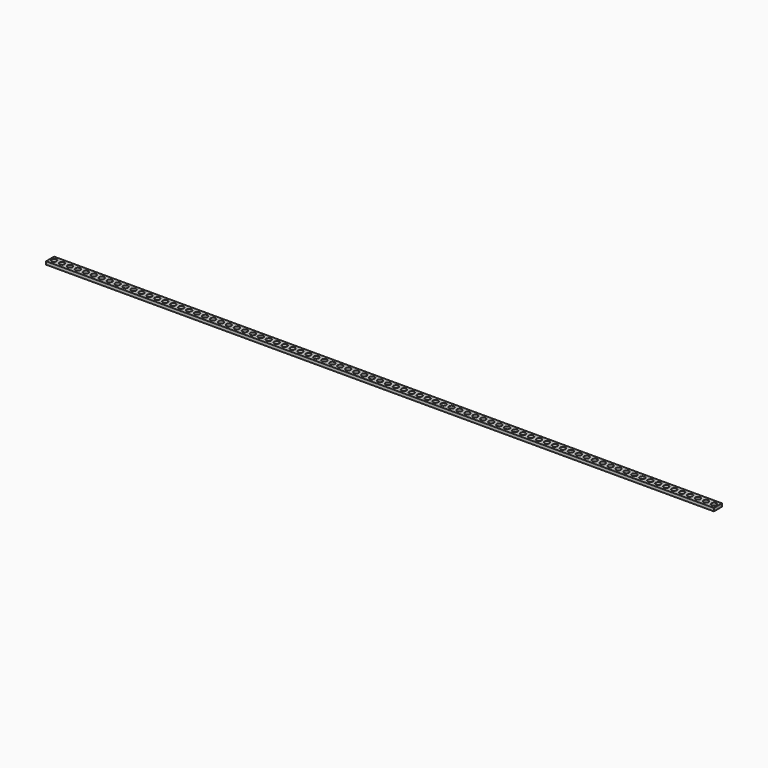
from build123d import *

# Parameters (mm, degrees)
F0_W     = 5.08
F0_H     = 6.4
F0_R     = 1.6
F1_DEPTH = 1.96


with BuildPart() as f1:
    # F0 (on Top) → F1 (new body)
    with BuildSketch(Plane.XY):
        with Locations((-205.296778, -8.673604)):
            Rectangle(F0_W, F0_H)
        with Locations((-205.296778, -8.673604)):
            Circle(F0_R, mode=Mode.SUBTRACT)
        with Locations((-200.216778, -8.673604)):
            Rectangle(F0_W, F0_H)
        with Locations((-200.216778, -8.673604)):
            Circle(F0_R, mode=Mode.SUBTRACT)
        with Locations((-195.136778, -8.673604)):
            Rectangle(F0_W, F0_H)
        with Locations((-195.136778, -8.673604)):
            Circle(F0_R, mode=Mode.SUBTRACT)
        with Locations((-190.056778, -8.673604)):
            Rectangle(F0_W, F0_H)
        with Locations((-190.056778, -8.673604)):
            Circle(F0_R, mode=Mode.SUBTRACT)
        with Locations((-184.976778, -8.673604)):
            Rectangle(F0_W, F0_H)
        with Locations((-184.976778, -8.673604)):
            Circle(F0_R, mode=Mode.SUBTRACT)
        with Locations((-179.896778, -8.673604)):
            Rectangle(F0_W, F0_H)
        with Locations((-179.896778, -8.673604)):
            Circle(F0_R, mode=Mode.SUBTRACT)
        with Locations((-174.816778, -8.673604)):
            Rectangle(F0_W, F0_H)
        with Locations((-174.816778, -8.673604)):
            Circle(F0_R, mode=Mode.SUBTRACT)
        with Locations((-169.736778, -8.673604)):
            Rectangle(F0_W, F0_H)
        with Locations((-169.736778, -8.673604)):
            Circle(F0_R, mode=Mode.SUBTRACT)
        with Locations((-164.656778, -8.673604)):
            Rectangle(F0_W, F0_H)
        with Locations((-164.656778, -8.673604)):
            Circle(F0_R, mode=Mode.SUBTRACT)
        with Locations((-159.576778, -8.673604)):
            Rectangle(F0_W, F0_H)
        with Locations((-159.576778, -8.673604)):
            Circle(F0_R, mode=Mode.SUBTRACT)
        with Locations((-154.496778, -8.673604)):
            Rectangle(F0_W, F0_H)
        with Locations((-154.496778, -8.673604)):
            Circle(F0_R, mode=Mode.SUBTRACT)
        with Locations((-149.416778, -8.673604)):
            Rectangle(F0_W, F0_H)
        with Locations((-149.416778, -8.673604)):
            Circle(F0_R, mode=Mode.SUBTRACT)
        with Locations((-144.336778, -8.673604)):
            Rectangle(F0_W, F0_H)
        with Locations((-144.336778, -8.673604)):
            Circle(F0_R, mode=Mode.SUBTRACT)
        with Locations((-139.256778, -8.673604)):
            Rectangle(F0_W, F0_H)
        with Locations((-139.256778, -8.673604)):
            Circle(F0_R, mode=Mode.SUBTRACT)
        with Locations((-134.176778, -8.673604)):
            Rectangle(F0_W, F0_H)
        with Locations((-134.176778, -8.673604)):
            Circle(F0_R, mode=Mode.SUBTRACT)
        with Locations((-129.096778, -8.673604)):
            Rectangle(F0_W, F0_H)
        with Locations((-129.096778, -8.673604)):
            Circle(F0_R, mode=Mode.SUBTRACT)
        with Locations((-124.016778, -8.673604)):
            Rectangle(F0_W, F0_H)
        with Locations((-124.016778, -8.673604)):
            Circle(F0_R, mode=Mode.SUBTRACT)
        with Locations((-118.936778, -8.673604)):
            Rectangle(F0_W, F0_H)
        with Locations((-118.936778, -8.673604)):
            Circle(F0_R, mode=Mode.SUBTRACT)
        with Locations((-113.856778, -8.673604)):
            Rectangle(F0_W, F0_H)
        with Locations((-113.856778, -8.673604)):
            Circle(F0_R, mode=Mode.SUBTRACT)
        with Locations((-108.776778, -8.673604)):
            Rectangle(F0_W, F0_H)
        with Locations((-108.776778, -8.673604)):
            Circle(F0_R, mode=Mode.SUBTRACT)
        with Locations((-103.696778, -8.673604)):
            Rectangle(F0_W, F0_H)
        with Locations((-103.696778, -8.673604)):
            Circle(F0_R, mode=Mode.SUBTRACT)
        with Locations((-98.616778, -8.673604)):
            Rectangle(F0_W, F0_H)
        with Locations((-98.616778, -8.673604)):
            Circle(F0_R, mode=Mode.SUBTRACT)
        with Locations((-93.536778, -8.673604)):
            Rectangle(F0_W, F0_H)
        with Locations((-93.536778, -8.673604)):
            Circle(F0_R, mode=Mode.SUBTRACT)
        with Locations((-88.456778, -8.673604)):
            Rectangle(F0_W, F0_H)
        with Locations((-88.456778, -8.673604)):
            Circle(F0_R, mode=Mode.SUBTRACT)
        with Locations((-83.376778, -8.673604)):
            Rectangle(F0_W, F0_H)
        with Locations((-83.376778, -8.673604)):
            Circle(F0_R, mode=Mode.SUBTRACT)
        with Locations((-78.296778, -8.673604)):
            Rectangle(F0_W, F0_H)
        with Locations((-78.296778, -8.673604)):
            Circle(F0_R, mode=Mode.SUBTRACT)
        with Locations((-73.216778, -8.673604)):
            Rectangle(F0_W, F0_H)
        with Locations((-73.216778, -8.673604)):
            Circle(F0_R, mode=Mode.SUBTRACT)
        with Locations((-68.136778, -8.673604)):
            Rectangle(F0_W, F0_H)
        with Locations((-68.136778, -8.673604)):
            Circle(F0_R, mode=Mode.SUBTRACT)
        with Locations((-63.056778, -8.673604)):
            Rectangle(F0_W, F0_H)
        with Locations((-63.056778, -8.673604)):
            Circle(F0_R, mode=Mode.SUBTRACT)
        with Locations((-57.976778, -8.673604)):
            Rectangle(F0_W, F0_H)
        with Locations((-57.976778, -8.673604)):
            Circle(F0_R, mode=Mode.SUBTRACT)
        with Locations((-52.896778, -8.673604)):
            Rectangle(F0_W, F0_H)
        with Locations((-52.896778, -8.673604)):
            Circle(F0_R, mode=Mode.SUBTRACT)
        with Locations((-47.816778, -8.673604)):
            Rectangle(F0_W, F0_H)
        with Locations((-47.816778, -8.673604)):
            Circle(F0_R, mode=Mode.SUBTRACT)
        with Locations((-42.736778, -8.673604)):
            Rectangle(F0_W, F0_H)
        with Locations((-42.736778, -8.673604)):
            Circle(F0_R, mode=Mode.SUBTRACT)
        with Locations((-37.656778, -8.673604)):
            Rectangle(F0_W, F0_H)
        with Locations((-37.656778, -8.673604)):
            Circle(F0_R, mode=Mode.SUBTRACT)
        with Locations((-32.576778, -8.673604)):
            Rectangle(F0_W, F0_H)
        with Locations((-32.576778, -8.673604)):
            Circle(F0_R, mode=Mode.SUBTRACT)
        with Locations((-27.496778, -8.673604)):
            Rectangle(F0_W, F0_H)
        with Locations((-27.496778, -8.673604)):
            Circle(F0_R, mode=Mode.SUBTRACT)
        with Locations((-22.416778, -8.673604)):
            Rectangle(F0_W, F0_H)
        with Locations((-22.416778, -8.673604)):
            Circle(F0_R, mode=Mode.SUBTRACT)
        with Locations((-17.336778, -8.673604)):
            Rectangle(F0_W, F0_H)
        with Locations((-17.336778, -8.673604)):
            Circle(F0_R, mode=Mode.SUBTRACT)
        with Locations((-12.256778, -8.673604)):
            Rectangle(F0_W, F0_H)
        with Locations((-12.256778, -8.673604)):
            Circle(F0_R, mode=Mode.SUBTRACT)
        with Locations((-7.176778, -8.673604)):
            Rectangle(F0_W, F0_H)
        with Locations((-7.176778, -8.673604)):
            Circle(F0_R, mode=Mode.SUBTRACT)
        with Locations((-2.096778, -8.673604)):
            Rectangle(F0_W, F0_H)
        with Locations((-2.096778, -8.673604)):
            Circle(F0_R, mode=Mode.SUBTRACT)
        with Locations((2.983222, -8.673604)):
            Rectangle(F0_W, F0_H)
        with Locations((2.983222, -8.673604)):
            Circle(F0_R, mode=Mode.SUBTRACT)
        with Locations((8.063222, -8.673604)):
            Rectangle(F0_W, F0_H)
        with Locations((8.063222, -8.673604)):
            Circle(F0_R, mode=Mode.SUBTRACT)
        with Locations((13.143222, -8.673604)):
            Rectangle(F0_W, F0_H)
        with Locations((13.143222, -8.673604)):
            Circle(F0_R, mode=Mode.SUBTRACT)
        with Locations((18.223222, -8.673604)):
            Rectangle(F0_W, F0_H)
        with Locations((18.223222, -8.673604)):
            Circle(F0_R, mode=Mode.SUBTRACT)
        with Locations((23.303222, -8.673604)):
            Rectangle(F0_W, F0_H)
        with Locations((23.303222, -8.673604)):
            Circle(F0_R, mode=Mode.SUBTRACT)
        with Locations((28.383222, -8.673604)):
            Rectangle(F0_W, F0_H)
        with Locations((28.383222, -8.673604)):
            Circle(F0_R, mode=Mode.SUBTRACT)
        with Locations((33.463222, -8.673604)):
            Rectangle(F0_W, F0_H)
        with Locations((33.463222, -8.673604)):
            Circle(F0_R, mode=Mode.SUBTRACT)
        with Locations((38.543222, -8.673604)):
            Rectangle(F0_W, F0_H)
        with Locations((38.543222, -8.673604)):
            Circle(F0_R, mode=Mode.SUBTRACT)
        with Locations((43.623222, -8.673604)):
            Rectangle(F0_W, F0_H)
        with Locations((43.623222, -8.673604)):
            Circle(F0_R, mode=Mode.SUBTRACT)
        with Locations((48.703222, -8.673604)):
            Rectangle(F0_W, F0_H)
        with Locations((48.703222, -8.673604)):
            Circle(F0_R, mode=Mode.SUBTRACT)
        with Locations((53.783222, -8.673604)):
            Rectangle(F0_W, F0_H)
        with Locations((53.783222, -8.673604)):
            Circle(F0_R, mode=Mode.SUBTRACT)
        with Locations((58.863222, -8.673604)):
            Rectangle(F0_W, F0_H)
        with Locations((58.863222, -8.673604)):
            Circle(F0_R, mode=Mode.SUBTRACT)
        with Locations((63.943222, -8.673604)):
            Rectangle(F0_W, F0_H)
        with Locations((63.943222, -8.673604)):
            Circle(F0_R, mode=Mode.SUBTRACT)
        with Locations((69.023222, -8.673604)):
            Rectangle(F0_W, F0_H)
        with Locations((69.023222, -8.673604)):
            Circle(F0_R, mode=Mode.SUBTRACT)
        with Locations((74.103222, -8.673604)):
            Rectangle(F0_W, F0_H)
        with Locations((74.103222, -8.673604)):
            Circle(F0_R, mode=Mode.SUBTRACT)
        with Locations((79.183222, -8.673604)):
            Rectangle(F0_W, F0_H)
        with Locations((79.183222, -8.673604)):
            Circle(F0_R, mode=Mode.SUBTRACT)
        with Locations((84.263222, -8.673604)):
            Rectangle(F0_W, F0_H)
        with Locations((84.263222, -8.673604)):
            Circle(F0_R, mode=Mode.SUBTRACT)
        with Locations((89.343222, -8.673604)):
            Rectangle(F0_W, F0_H)
        with Locations((89.343222, -8.673604)):
            Circle(F0_R, mode=Mode.SUBTRACT)
        with Locations((94.423222, -8.673604)):
            Rectangle(F0_W, F0_H)
        with Locations((94.423222, -8.673604)):
            Circle(F0_R, mode=Mode.SUBTRACT)
        with Locations((99.503222, -8.673604)):
            Rectangle(F0_W, F0_H)
        with Locations((99.503222, -8.673604)):
            Circle(F0_R, mode=Mode.SUBTRACT)
        with Locations((104.583222, -8.673604)):
            Rectangle(F0_W, F0_H)
        with Locations((104.583222, -8.673604)):
            Circle(F0_R, mode=Mode.SUBTRACT)
        with Locations((109.663222, -8.673604)):
            Rectangle(F0_W, F0_H)
        with Locations((109.663222, -8.673604)):
            Circle(F0_R, mode=Mode.SUBTRACT)
        with Locations((114.743222, -8.673604)):
            Rectangle(F0_W, F0_H)
        with Locations((114.743222, -8.673604)):
            Circle(F0_R, mode=Mode.SUBTRACT)
        with Locations((119.823222, -8.673604)):
            Rectangle(F0_W, F0_H)
        with Locations((119.823222, -8.673604)):
            Circle(F0_R, mode=Mode.SUBTRACT)
        with Locations((124.903222, -8.673604)):
            Rectangle(F0_W, F0_H)
        with Locations((124.903222, -8.673604)):
            Circle(F0_R, mode=Mode.SUBTRACT)
        with Locations((129.983222, -8.673604)):
            Rectangle(F0_W, F0_H)
        with Locations((129.983222, -8.673604)):
            Circle(F0_R, mode=Mode.SUBTRACT)
        with Locations((135.063222, -8.673604)):
            Rectangle(F0_W, F0_H)
        with Locations((135.063222, -8.673604)):
            Circle(F0_R, mode=Mode.SUBTRACT)
        with Locations((140.143222, -8.673604)):
            Rectangle(F0_W, F0_H)
        with Locations((140.143222, -8.673604)):
            Circle(F0_R, mode=Mode.SUBTRACT)
        with Locations((145.223222, -8.673604)):
            Rectangle(F0_W, F0_H)
        with Locations((145.223222, -8.673604)):
            Circle(F0_R, mode=Mode.SUBTRACT)
        with Locations((150.303222, -8.673604)):
            Rectangle(F0_W, F0_H)
        with Locations((150.303222, -8.673604)):
            Circle(F0_R, mode=Mode.SUBTRACT)
        with Locations((155.383222, -8.673604)):
            Rectangle(F0_W, F0_H)
        with Locations((155.383222, -8.673604)):
            Circle(F0_R, mode=Mode.SUBTRACT)
        with Locations((160.463222, -8.673604)):
            Rectangle(F0_W, F0_H)
        with Locations((160.463222, -8.673604)):
            Circle(F0_R, mode=Mode.SUBTRACT)
        with Locations((165.543222, -8.673604)):
            Rectangle(F0_W, F0_H)
        with Locations((165.543222, -8.673604)):
            Circle(F0_R, mode=Mode.SUBTRACT)
        with Locations((175.703222, -8.673604)):
            Rectangle(F0_W, F0_H)
        with Locations((175.703222, -8.673604)):
            Circle(F0_R, mode=Mode.SUBTRACT)
        with Locations((180.783222, -8.673604)):
            Rectangle(F0_W, F0_H)
        with Locations((180.783222, -8.673604)):
            Circle(F0_R, mode=Mode.SUBTRACT)
        with Locations((170.623222, -8.673604)):
            Rectangle(F0_W, F0_H)
        with Locations((170.623222, -8.673604)):
            Circle(F0_R, mode=Mode.SUBTRACT)
        with Locations((185.863222, -8.673604)):
            Rectangle(F0_W, F0_H)
        with Locations((185.863222, -8.673604)):
            Circle(F0_R, mode=Mode.SUBTRACT)
        with Locations((190.943222, -8.673604)):
            Rectangle(F0_W, F0_H)
        with Locations((190.943222, -8.673604)):
            Circle(F0_R, mode=Mode.SUBTRACT)
        with Locations((196.023222, -8.673604)):
            Rectangle(F0_W, F0_H)
        with Locations((196.023222, -8.673604)):
            Circle(F0_R, mode=Mode.SUBTRACT)
        with Locations((201.103222, -8.673604)):
            Rectangle(F0_W, F0_H)
        with Locations((201.103222, -8.673604)):
            Circle(F0_R, mode=Mode.SUBTRACT)
        with Locations((206.183222, -8.673604)):
            Rectangle(F0_W, F0_H)
        with Locations((206.183222, -8.673604)):
            Circle(F0_R, mode=Mode.SUBTRACT)
        with Locations((211.263222, -8.673604)):
            Rectangle(F0_W, F0_H)
        with Locations((211.263222, -8.673604)):
            Circle(F0_R, mode=Mode.SUBTRACT)
        with Locations((216.343222, -8.673604)):
            Rectangle(F0_W, F0_H)
        with Locations((216.343222, -8.673604)):
            Circle(F0_R, mode=Mode.SUBTRACT)
    extrude(amount=F1_DEPTH)


solid = f1.part
